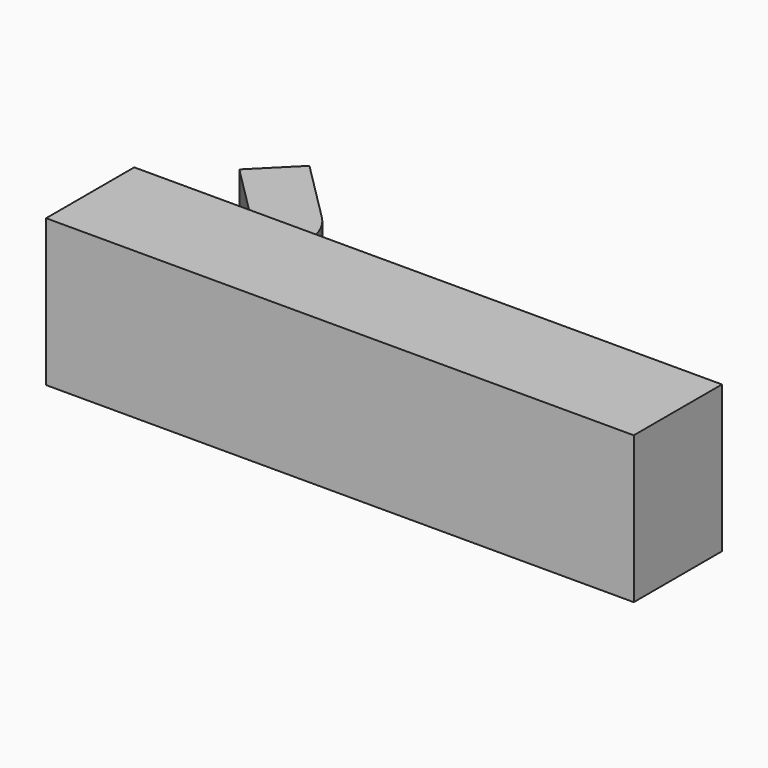
from build123d import *

# Parameters (mm, degrees)
F1_DEPTH = 6.35
F0_W     = 4.7625
F0_H     = 4.7625
F2_DEPTH = 2.38125


with BuildPart() as f1:
    # F0 (on Top) → F1 (new body, symmetric)
    with BuildSketch(Plane.XY):
        Polygon((0, -15.212259), (-4.7625, -15.212259), (-11.1125, -15.212259), (-11.1125, -24.737259), (39.6875, -24.737259), (39.6875, -15.212259), align=None)
    extrude(amount=F1_DEPTH, both=True)

    # F0 (on Top) → F2 (join, symmetric)
    with BuildSketch(Plane.XY):
        with Locations((-2.38125, -12.831009)):
            Rectangle(F0_W, F0_H)
        with BuildLine():
            Line((-1.394904, -7.082163), (-4.7625, -10.449759))
            Line((-4.7625, -10.449759), (0, -10.449759))
            ThreePointArc((0, -10.449759), (-0.362524, -8.627229), (-1.394904, -7.082163))
        make_face()
        Polygon((-10.146717, -5.065542), (-4.7625, -10.449759), (-1.394904, -7.082163), (-6.779121, -1.697946), align=None)
    extrude(amount=F2_DEPTH, both=True)


solid = f1.part
